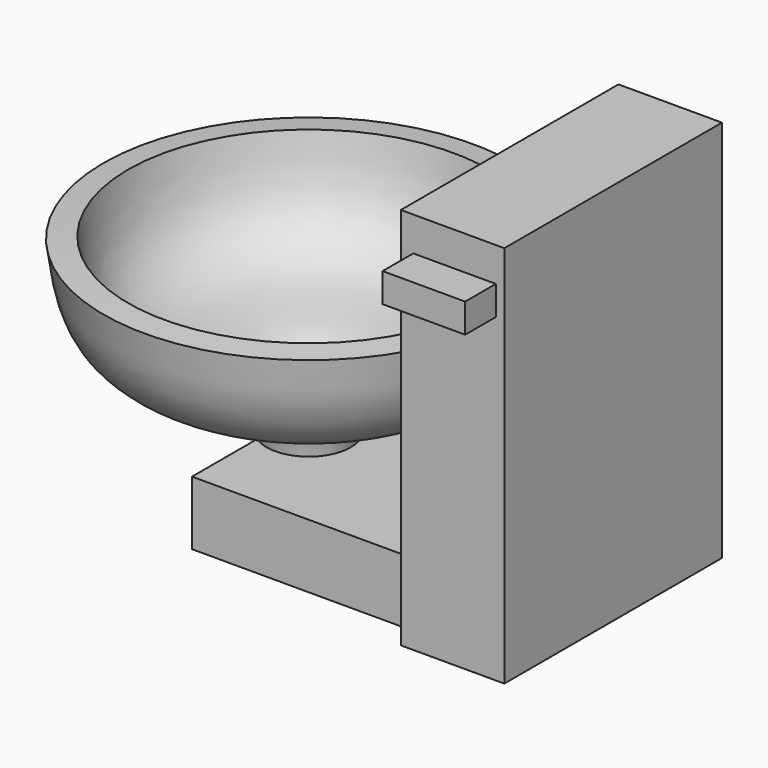
from build123d import *

# Parameters (mm, degrees)
F0_W      = 20.5656066537
F0_H      = 54.0581624955
F1_DEPTH  = 76.2
F5_W      = 16.4082637057
F5_H      = 5.7945027947
F6_DEPTH  = 7.62
F7_W      = 52.424851805
F7_H      = 46.2164059281
F8_DEPTH  = 12.7
F10_W     = 3.1882505864
F10_H     = 10.9414318576
F11_DEPTH = 12.7
F12_DEPTH = 25.4
F13_DEPTH = 12.7


with BuildPart() as f1:
    # F0 (on Top) → F1 (new body)
    with BuildSketch(Plane.XY):
        with Locations((10.2828033268, -1.0772468522)):
            Rectangle(F0_W, F0_H)
    extrude(amount=F1_DEPTH)

    # F5 (on face) → F6 (join)
    with BuildSketch(Plane.XZ.offset(28.1063281)):
        with Locations((10.6682186015, 66.5030814707)):
            Rectangle(F5_W, F5_H)
    extrude(amount=F6_DEPTH)


with BuildPart() as f4:
    # F2 (on Front) → F4 (revolve)
    with BuildSketch(Plane.XZ):
        with BuildLine():
            add(Edge.make_bspline(
                [(0, 46.4608344404), (-0.712629488, 41.1682067449), (-2.1380265, 30.5819261738), (-16.5368148643, 22.5173794107), (-33.4028787088, 22.8297413406), (-32.8829115311, 8.1056571837), (-32.5966678744, 0)],
                knots=[0, 0, 0, 0, 0.244948915, 0.4899452765, 0.7192131823, 1, 1, 1, 1], degree=3))
            Line((0, 46.4608344404), (-4.8683337359, 46.8841713971))
            add(Edge.make_bspline(
                [(-38.1, 0), (-37.9331579189, 2.4214950026), (-37.5517035553, 7.9578071182), (-37.5878736416, 24.6213915584), (-17.1486198813, 25.3630469839), (-6.7295544595, 34.0025257621), (-5.4872138126, 42.6008568298), (-4.8683337359, 46.8841713971)],
                knots=[0, 0, 0, 0, 0.1604712998, 0.3668887198, 0.6016946245, 0.8015815856, 1, 1, 1, 1], degree=3))
            Line((-38.1, 0), (-32.5966678744, 0))
        make_face()
    revolve(axis=Axis((-40.797829628, 0, 25.5370792001), (0, 0, 1)))


with BuildPart() as f8:
    # F7 (on Top) → F8 (new body)
    with BuildSketch(Plane.XY):
        with Locations((-19.3041469902, 0)):
            Rectangle(F7_W, F7_H)
    extrude(amount=F8_DEPTH)


with BuildPart() as f11:
    # F10 (on offset) → F11 (new body)
    with BuildSketch(Plane.XY.offset(48.26)):
        with Locations((-4.0426328778, 0)):
            Rectangle(F10_W, F10_H)
    extrude(amount=F11_DEPTH)

    # F12 (add): a face of the model
    f12_faces = [f11.faces().sort_by_distance(p)[0] for p in [
        (-4.0426328778, 5.4707159288, 54.61),
    ]]
    extrude(f12_faces, amount=-F12_DEPTH)

    # F13 (cut): a face of the model
    f13_faces = [f11.faces().sort_by_distance(p)[0] for p in [
        (-4.0426328778, 5.4707159288, 54.61),
    ]]
    extrude(f13_faces, amount=-F13_DEPTH, mode=Mode.SUBTRACT)


solid = Compound([f1.part, f4.part, f8.part, f11.part])
